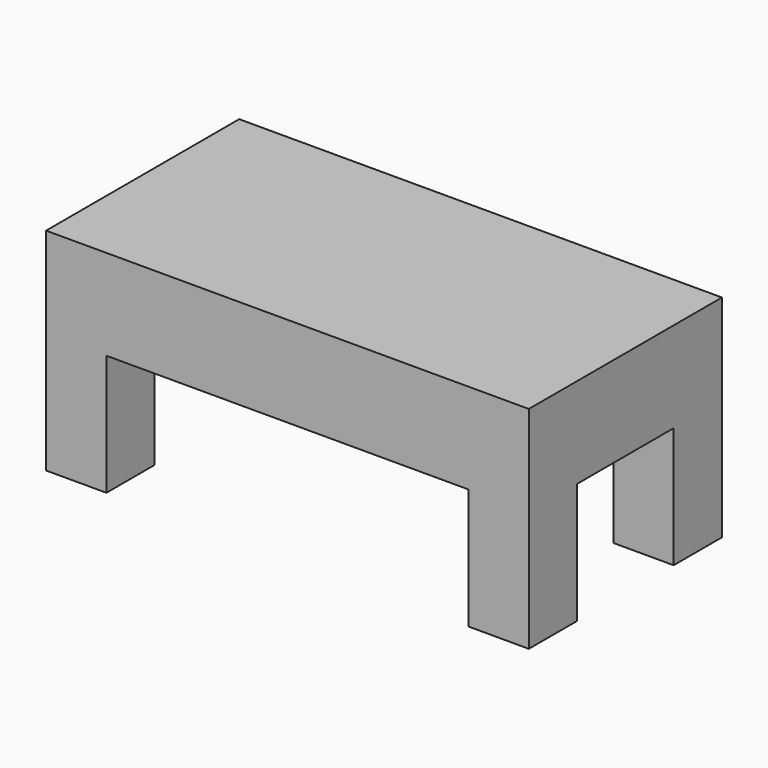
from build123d import *

# Parameters (mm, degrees)
F0_W     = 101.6
F0_H     = 50.8
F1_DEPTH = 19.05
F2_W     = 12.7
F2_H     = 12.7
F3_DEPTH = 25.4


with BuildPart() as f1:
    # F0 (on Top) → F1 (new body)
    with BuildSketch(Plane.XY):
        with Locations((10.992068, -11.603852)):
            Rectangle(F0_W, F0_H)
    extrude(amount=F1_DEPTH)

    # F2 (on face) → F3 (join)
    with BuildSketch(Plane(origin=(0, 0, 0), x_dir=(1, 0, 0), z_dir=(0, 0, -1))):
        with Locations((55.442068, 30.653852)):
            Rectangle(F2_W, F2_H)
        with Locations((55.442068, -7.446148)):
            Rectangle(F2_W, F2_H)
        with Locations((-33.457932, -7.446148)):
            Rectangle(F2_W, F2_H)
        with Locations((-33.457932, 30.653852)):
            Rectangle(F2_W, F2_H)
    extrude(amount=F3_DEPTH)


solid = f1.part
